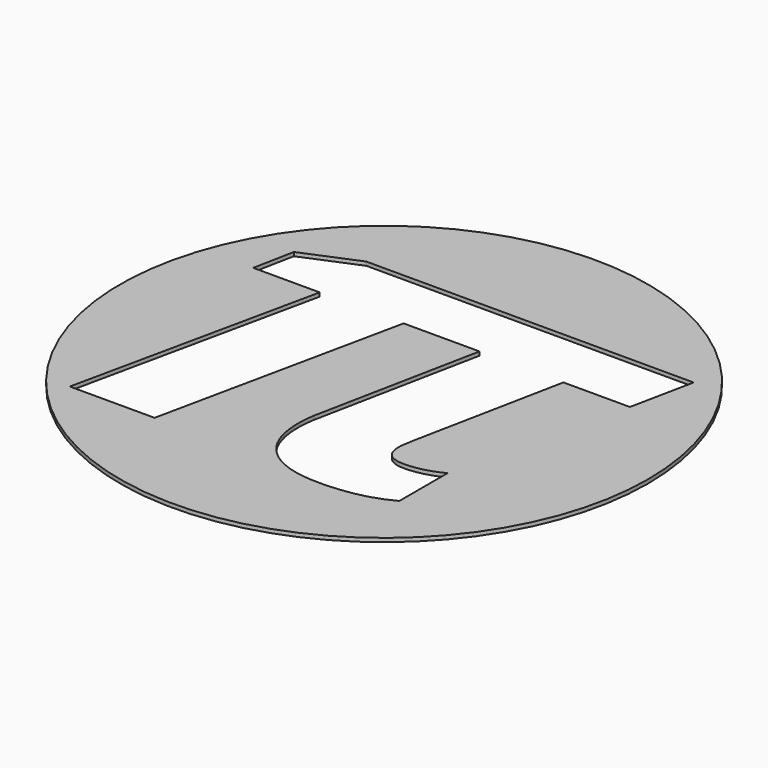
from build123d import *

# Parameters (mm, degrees)
F0_R     = 70
F1_DEPTH = 1


with BuildPart() as f1:
    # F0 (on Top) → F1 (new body)
    with BuildSketch(Plane.XY):
        Circle(F0_R)
        with BuildLine():
            add(Edge.make_bspline(
                [(20.6345475911, -20.9330199765), (20.6345475911, -26.2209165687), (26.2279670975, -26.2209165687)],
                knots=[0, 0, 0, 1, 1, 1], degree=2))
            add(Edge.make_bspline(
                [(26.2279670975, -26.2209165687), (30.9988249119, -26.2209165687), (35.8401880141, -23.776733255)],
                knots=[0, 0, 0, 1, 1, 1], degree=2))
            Line((35.8401880141, -23.776733255), (35.8401880141, -39.7344300823))
            add(Edge.make_bspline(
                [(35.8401880141, -39.7344300823), (28.5076380729, -43.776733255), (17.6263219741, -43.776733255)],
                knots=[0, 0, 0, 1, 1, 1], degree=2))
            add(Edge.make_bspline(
                [(17.6263219741, -43.776733255), (8.0141010576, -43.776733255), (2.8672150411, -39.0646298472)],
                knots=[0, 0, 0, 1, 1, 1], degree=2))
            add(Edge.make_bspline(
                [(2.8672150411, -39.0646298472), (-2.2796709753, -34.3525264395), (-2.2796709753, -25.4688601645)],
                knots=[0, 0, 0, 1, 1, 1], degree=2))
            add(Edge.make_bspline(
                [(-2.2796709753, -25.4688601645), (-2.2796709753, -23.4947121034), (-1.8683901293, -20.9212690952)],
                knots=[0, 0, 0, 1, 1, 1], degree=2))
            add(Edge.make_bspline(
                [(-1.8683901293, -20.9212690952), (-1.4571092832, -18.347826087), (6.9095182139, 22.9917743831)],
                knots=[0, 0, 0, 1, 1, 1], degree=2))
            Line((6.9095182139, 22.9917743831), (-13.2079905993, 22.9917743831))
            Line((-13.2079905993, 22.9917743831), (-27.027027027, -42.2961222092))
            Line((-27.027027027, -42.2961222092), (-49.4947121034, -42.2961222092))
            Line((-49.4947121034, -42.2961222092), (-35.464159812, 22.9917743831))
            Line((-35.464159812, 22.9917743831), (-53.0904817861, 22.9917743831))
            Line((-53.0904817861, 22.9917743831), (-50.9753231492, 33.8025851939))
            Line((-50.9753231492, 33.8025851939), (-36.5687426557, 39.8190364277))
            Line((-36.5687426557, 39.8190364277), (50.2467685076, 39.8190364277))
            Line((50.2467685076, 39.8190364277), (46.7920094007, 22.9917743831))
            Line((46.7920094007, 22.9917743831), (29.1656874266, 22.9917743831))
            Line((29.1656874266, 22.9917743831), (21.2220916569, -16.7262044653))
            add(Edge.make_bspline(
                [(21.2220916569, -16.7262044653), (20.6345475911, -19.6639247944), (20.6345475911, -20.9330199765)],
                knots=[0, 0, 0, 1, 1, 1], degree=2))
        make_face(mode=Mode.SUBTRACT)
    extrude(amount=F1_DEPTH)


solid = f1.part
